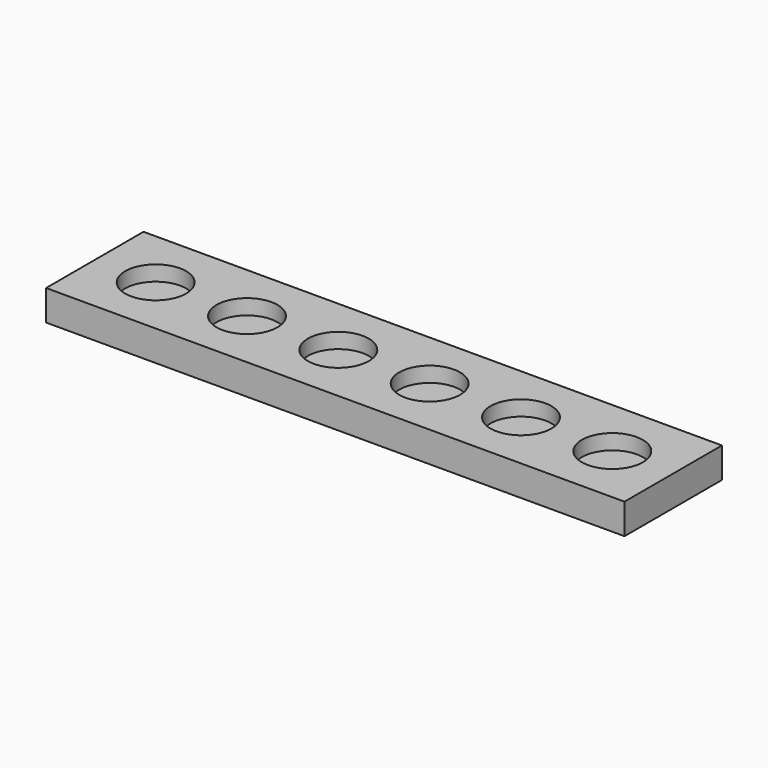
from build123d import *

# Parameters (mm, degrees)
F0_R     = 25.4
F1_DEPTH = 12.7
F0_W     = 482.6
F0_H     = 101.6
F2_DEPTH = 25.4


with BuildPart() as f1:
    # F0 (on Top) → F1 (new body)
    with BuildSketch(Plane.XY):
        with Locations((-190.5, 0)):
            Circle(F0_R)
        with Locations((-114.3, 0)):
            Circle(F0_R)
        with Locations((-38.1, 0)):
            Circle(F0_R)
        with Locations((38.1, 0)):
            Circle(F0_R)
        with Locations((114.3, 0)):
            Circle(F0_R)
        with Locations((190.5, 0)):
            Circle(F0_R)
    extrude(amount=F1_DEPTH)


with BuildPart() as f2:
    # F0 (on Top) → F2 (new body)
    with BuildSketch(Plane.XY):
        Rectangle(F0_W, F0_H)
        with Locations((-190.5, 0)):
            Circle(F0_R, mode=Mode.SUBTRACT)
        with Locations((-114.3, 0)):
            Circle(F0_R, mode=Mode.SUBTRACT)
        with Locations((-38.1, 0)):
            Circle(F0_R, mode=Mode.SUBTRACT)
        with Locations((38.1, 0)):
            Circle(F0_R, mode=Mode.SUBTRACT)
        with Locations((114.3, 0)):
            Circle(F0_R, mode=Mode.SUBTRACT)
        with Locations((190.5, 0)):
            Circle(F0_R, mode=Mode.SUBTRACT)
    extrude(amount=F2_DEPTH)


solid = Compound([f1.part, f2.part])
